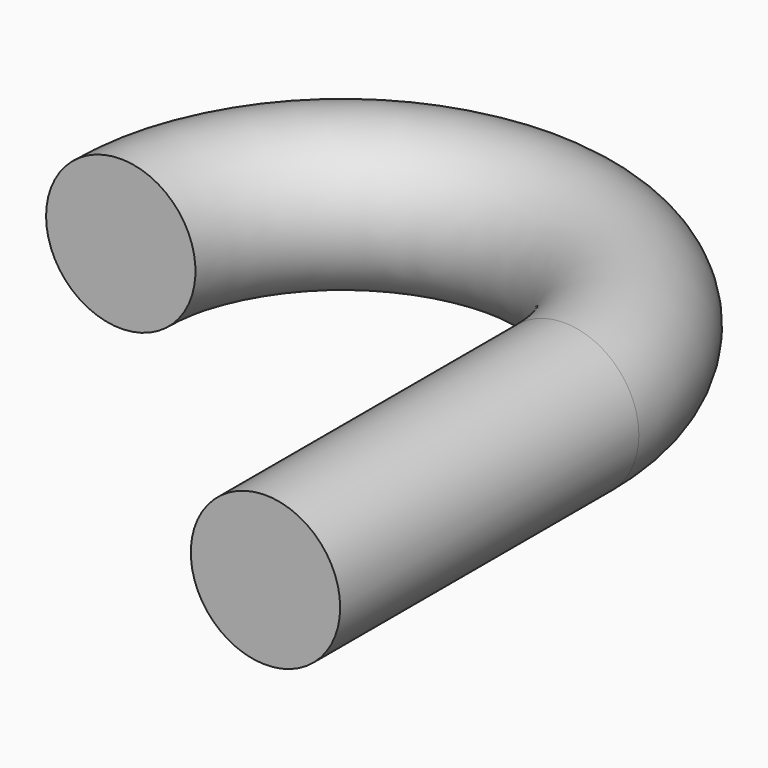
from build123d import *

# Parameters (mm, degrees)
F1_R = 6.35


with BuildPart() as f2:
    # F2: sweep along a path in F0
    with BuildLine(Plane.XY) as f2_path:
        Line((0, 0), (0, 31.75))
        ThreePointArc((0, 31.75), (-18.851805, 50.601805), (-37.70361, 31.75))
    # F1 (on Front) → F2 (sweep)
    with BuildSketch(Plane.XZ):
        Circle(F1_R)
    sweep(path=f2_path.line)


solid = f2.part
